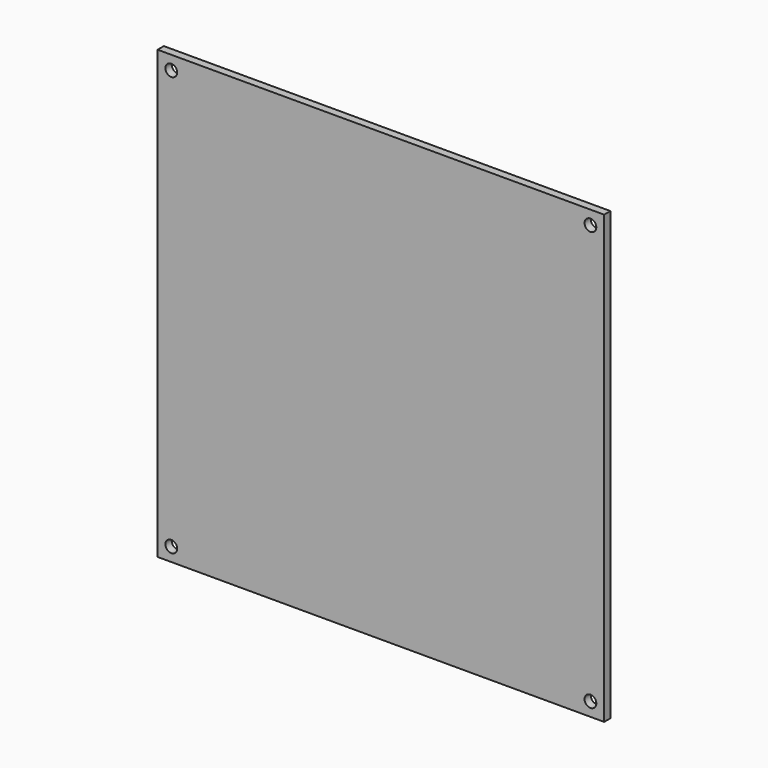
from build123d import *

# Parameters (mm, degrees)
F0_W     = 114
F0_H     = 114
F1_DEPTH = 2
F2_R     = 1.5
F3_DEPTH = 2.001
F4_DEPTH = 2.001


with BuildPart() as f1:
    # F0 (on Front) → F1 (new body)
    with BuildSketch(Plane.XZ):
        Rectangle(F0_W, F0_H)
    extrude(amount=F1_DEPTH)

    # F2 (on face) → F3 (cut, through all)
    with BuildSketch(Plane.XZ.offset(2)):
        with Locations((-53.5, 53.5)):
            Circle(F2_R)
    extrude(amount=-F3_DEPTH, mode=Mode.SUBTRACT)

    # F2 (on face) → F4 (cut, through all)
    with BuildSketch(Plane.XZ.offset(2)):
        with Locations((-53.5, 53.5)):
            Circle(F2_R)
        with Locations((53.5, 53.5)):
            Circle(F2_R)
        with Locations((53.5, -53.5)):
            Circle(F2_R)
        with Locations((-53.5, -53.5)):
            Circle(F2_R)
    extrude(amount=-F4_DEPTH, mode=Mode.SUBTRACT)


solid = f1.part
